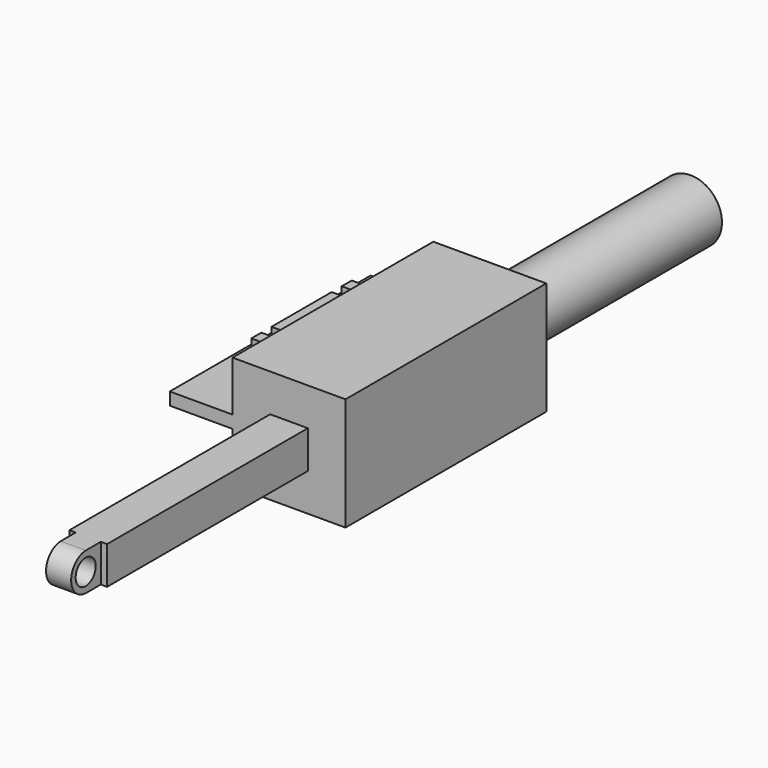
from build123d import *

# Parameters (mm, degrees)
F0_W      = 50.8
F0_H      = 7.62
F1_DEPTH  = 7.62
F2_W      = 5.08
F2_H      = 7.62
F3_DEPTH  = 7.62
F4_R      = 2.54
F5_DEPTH  = 25.4
F6_W      = 22.86
F6_H      = 22.86
F6_W_2    = 7.62
F6_H_2    = 7.62
F7_DEPTH  = 50.8
F8_R      = 6.35
F8_R_2    = 3.81
F9_DEPTH  = 50.8
F10_W     = 50.8
F10_H     = 2.54
F11_DEPTH = 35.56
F12_W     = 2.54
F12_H     = 6.35
F12_W_2   = 15.24
F13_DEPTH = 6.35
F14_R     = 1.27
F15_DEPTH = 25.4
F16_W     = 2.54
F16_H     = 6.35
F16_W_2   = 15.24
F17_DEPTH = 6.35


with BuildPart() as f1:
    # F0 (on Right) → F1 (new body)
    with BuildSketch(Plane.YZ):
        with Locations((-27.0321643911, 33.6084578316)):
            Rectangle(F0_W, F0_H)
    extrude(amount=F1_DEPTH)

    # F2 (on face) → F3 (join)
    with BuildSketch(Plane.XZ.offset(52.4321643911)):
        with Locations((3.81, 33.6084578316)):
            Rectangle(F2_W, F2_H)
    extrude(amount=F3_DEPTH)

    # F4 (on face) → F5 (cut)
    with BuildSketch(Plane.YZ.offset(6.35)):
        with Locations((-56.2421643911, 33.6084578316)):
            Circle(F4_R)
        with BuildLine():
            ThreePointArc((-56.2421643911, 29.7984578316), (-59.9211503168, 33.6084578316), (-56.2421643911, 37.4184578316))
            Line((-56.2421643911, 37.4184578316), (-60.0521643911, 37.4184578316))
            Line((-60.0521643911, 37.4184578316), (-60.0521643911, 29.7984578316))
            Line((-60.0521643911, 29.7984578316), (-56.2421643911, 29.7984578316))
        make_face()
    extrude(amount=-F5_DEPTH, mode=Mode.SUBTRACT)

    # F6 (on face) → F7 (join)
    with BuildSketch(Plane(origin=(0, -1.6321643911, 0), x_dir=(-1, 0, 0), z_dir=(0, 1, 0))):
        with Locations((-3.81, 33.6136929691)):
            Rectangle(F6_W, F6_H)
        with Locations((-3.81, 33.6084578316)):
            Rectangle(F6_W_2, F6_H_2, mode=Mode.SUBTRACT)
        with Locations((-3.81, 33.6084578316)):
            Rectangle(F6_W_2, F6_H_2)
    extrude(amount=F7_DEPTH)

    # F8 (on face) → F9 (join)
    with BuildSketch(Plane(origin=(0, 49.1678356089, 0), x_dir=(-1, 0, 0), z_dir=(0, 1, 0))):
        with Locations((-3.81, 33.6136929691)):
            Circle(F8_R)
        with Locations((-3.81, 33.6136929691)):
            Circle(F8_R_2, mode=Mode.SUBTRACT)
    extrude(amount=F9_DEPTH)

    # F10 (on face) → F11 (join)
    with BuildSketch(Plane.YZ.offset(15.24)):
        with Locations((23.7678356089, 33.6136929691)):
            Rectangle(F10_W, F10_H)
    extrude(amount=-F11_DEPTH)

    # F12 (on face) → F13 (join)
    with BuildSketch(Plane(origin=(-7.62, 0, 0), x_dir=(0, -1, 0), z_dir=(-1, 0, 0))):
        with Locations((-35.1978356089, 38.0586929691)):
            Rectangle(F12_W, F12_H)
        with Locations((-23.7678356089, 38.0586929691)):
            Rectangle(F12_W_2, F12_H)
        with Locations((-12.3378356089, 38.0586929691)):
            Rectangle(F12_W, F12_H)
    extrude(amount=F13_DEPTH)

    # F14 (on face) → F15 (cut)
    with BuildSketch(Plane(origin=(0, 36.4678356089, 0), x_dir=(-1, 0, 0), z_dir=(0, 1, 0))):
        with Locations((10.795, 38.0586929691)):
            Circle(F14_R)
    extrude(amount=-F15_DEPTH, mode=Mode.SUBTRACT)

    # F16 (on face) → F17 (join)
    with BuildSketch(Plane(origin=(-7.62, 0, 0), x_dir=(0, -1, 0), z_dir=(-1, 0, 0))):
        with Locations((-35.1978356089, 29.1686929691)):
            Rectangle(F16_W, F16_H)
        with Locations((-23.7678356089, 29.1686929691)):
            Rectangle(F16_W_2, F16_H)
        with Locations((-12.3378356089, 29.1686929691)):
            Rectangle(F16_W, F16_H)
    extrude(amount=F17_DEPTH)


solid = f1.part
